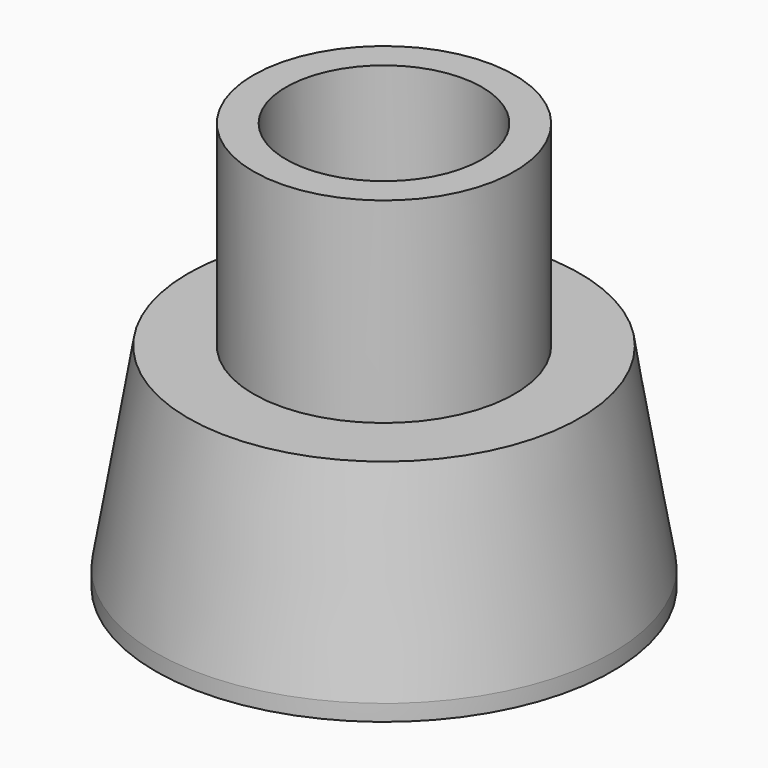
from build123d import *

# Parameters (mm, degrees)
F2_W     = 50.8
F2_H     = 31.75
F3_DEPTH = 44.451
F4_R     = 19.05
F5_DEPTH = 38.1


with BuildPart() as f1:
    # F0 (on Front) → F1 (revolve)
    with BuildSketch(Plane.XZ):
        Polygon((-38.1, 38.1), (-44.45, 0), (-44.45, -3.175), (-25.4, -3.175), (-25.4, 0), (-41.231205, 0), (-35.939538, 31.75), (-19.05, 31.75), (-19.05, 35.56), (-15.83305, 35.56), (-15.83305, 76.2), (-25.4, 76.2), (-25.4, 38.1), align=None)
    revolve(axis=Axis((0, 0, 192.978986), (0, 0, 1)))

    # F2 (on Front) → F3 (cut, through all)
    with BuildSketch(Plane.XZ):
        with Locations((0, 15.875)):
            Rectangle(F2_W, F2_H)
    extrude(amount=-F3_DEPTH, mode=Mode.SUBTRACT)

    # F4 (on face) → F5 (cut)
    with BuildSketch(Plane.XY.offset(76.2)):
        Circle(F4_R)
    extrude(amount=-F5_DEPTH, mode=Mode.SUBTRACT)


solid = f1.part
